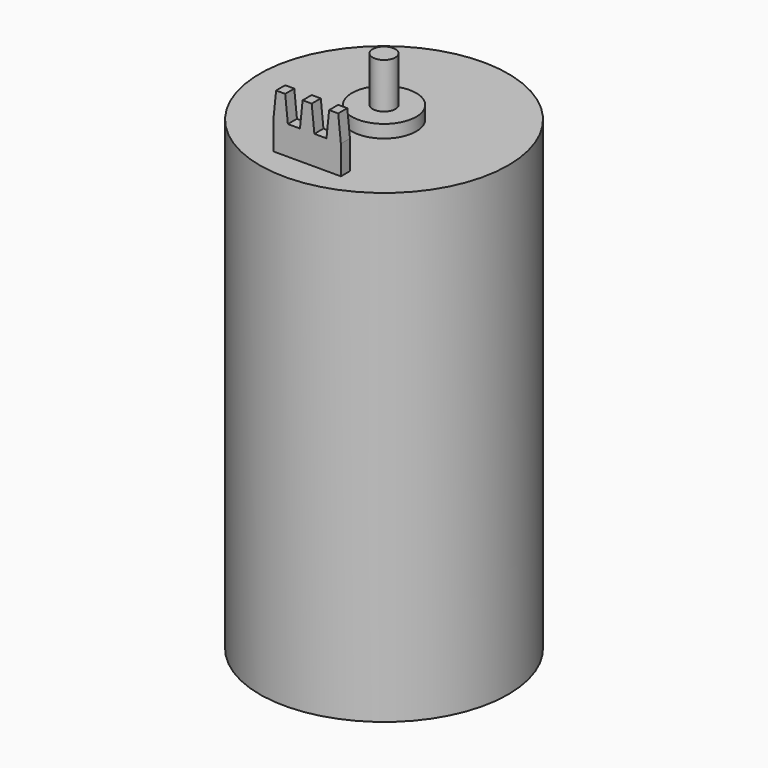
from build123d import *

# Parameters (mm, degrees)
F0_R     = 16.4
F1_DEPTH = 61.5
F2_R     = 1.5
F3_DEPTH = 7.7
F4_R     = 4.25
F5_DEPTH = 1.7
F6_W     = 8.9
F6_H     = 1.5
F7_DEPTH = 7.2
F9_DEPTH = 1.5


with BuildPart() as f1:
    # F0 (on Top) → F1 (new body)
    with BuildSketch(Plane.XY):
        Circle(F0_R)
    extrude(amount=F1_DEPTH)

    # F2 (on face) → F3 (join)
    with BuildSketch(Plane.XY.offset(61.5)):
        Circle(F2_R)
    extrude(amount=F3_DEPTH)

    # F4 (on face) → F5 (join)
    with BuildSketch(Plane.XY.offset(61.5)):
        Circle(F4_R)
    extrude(amount=F5_DEPTH)

    # F6 (on face) → F7 (join)
    with BuildSketch(Plane.XY.offset(61.5)):
        with Locations((0, -11.93791)):
            Rectangle(F6_W, F6_H)
    extrude(amount=F7_DEPTH)

    # F8 (on face) → F9 (cut, through all)
    with BuildSketch(Plane.XZ.offset(12.68791)):
        Polygon((-4.45, 65.3), (-4.1, 68.7), (-4.45, 68.7), align=None)
        Polygon((-0.95, 65.3), (-0.6, 68.7), (-2.9, 68.7), (-2.55, 65.3), align=None)
        Polygon((2.9, 68.7), (0.6, 68.7), (0.95, 65.3), (2.55, 65.3), align=None)
        Polygon((4.45, 68.7), (4.1, 68.7), (4.45, 65.3), align=None)
    extrude(amount=-F9_DEPTH, mode=Mode.SUBTRACT)


solid = f1.part
